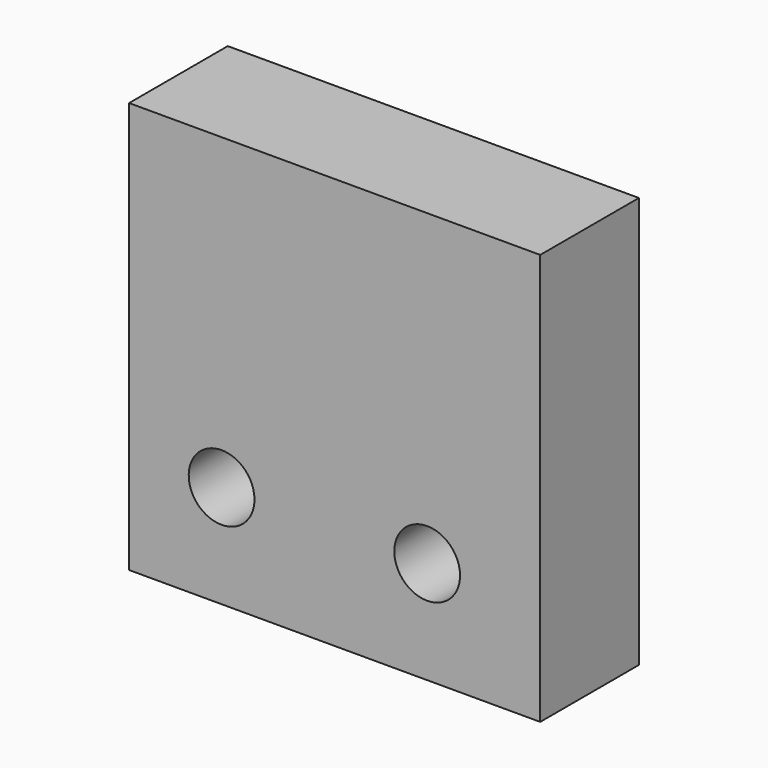
from build123d import *

# Parameters (mm, degrees)
CYLINDER110_R          = 1.6
CYLINDER110_DEPTH      = 10
CYLINDER111_R          = 1.6
CYLINDER111_DEPTH      = 10
BOX050_W               = 20
BOX050_H               = 6
BOX050_DEPTH           = 20
CUT058_PLACEMENT_ANGLE = 90


with BuildPart() as cylinder110:
    # Cylinder110 → Cylinder110 (new body)
    with BuildSketch(Plane(origin=(320, 26, 0), x_dir=(1, 0, 0), z_dir=(0, -1, 0))):
        Circle(CYLINDER110_R)
    extrude(amount=CYLINDER110_DEPTH)


with BuildPart() as fusion097:
    # Cylinder111 → Cylinder111 (new body)
    with BuildSketch(Plane(origin=(320, 26, 10), x_dir=(1, 0, 0), z_dir=(0, -1, 0))):
        Circle(CYLINDER111_R)
    extrude(amount=CYLINDER111_DEPTH)

    # Fusion097: union Cylinder110
    add(cylinder110.part)


with BuildPart() as fusion097_1:
    # Fusion097 placement: moved
    add(fusion097.part.moved(Location((15, -1.5, 6))))


with BuildPart() as cut058:
    # Box050 → Box050 (new body)
    with BuildSketch(Plane(origin=(320, 18.5, 1.5), x_dir=(1, 0, 0), z_dir=(0, 0, 1))):
        with Locations((10, 3)):
            Rectangle(BOX050_W, BOX050_H)
    extrude(amount=BOX050_DEPTH)

    # Cut058: cut Fusion097
    add(fusion097_1.part, mode=Mode.SUBTRACT)


with BuildPart() as cut058_1:
    # Cut058 placement: moved
    add(cut058.part.moved(Location((320, 37.5, 343))).rotate(Axis((320, 37.5, 343), (0, 1, 0)), CUT058_PLACEMENT_ANGLE))


solid = cut058_1.part
